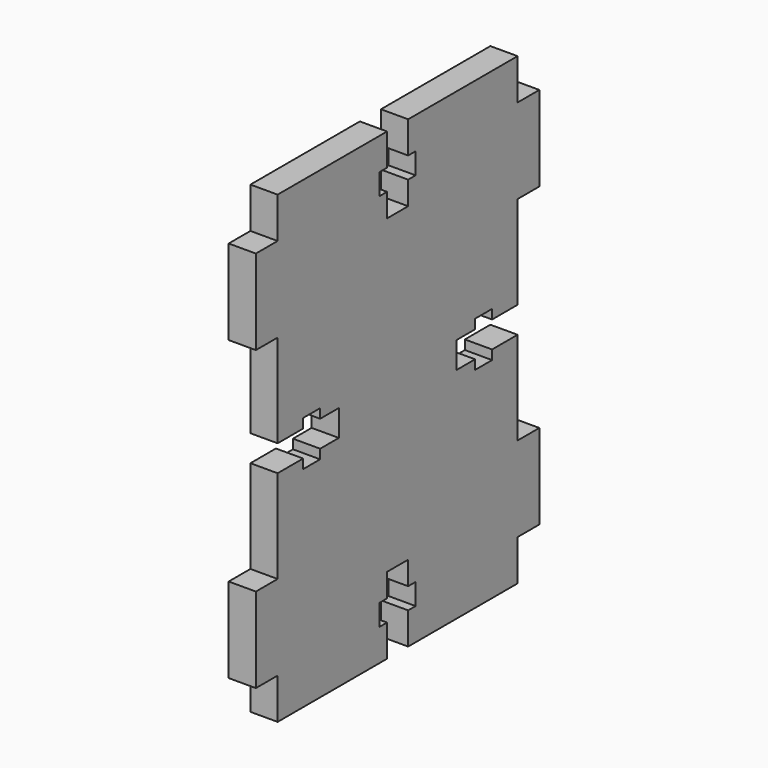
from build123d import *

# Parameters (mm, degrees)
F1_W     = 35.28
F1_H     = 54.6
F2_DEPTH = 3.2
F3_W     = 3.2
F3_H     = 10
F4_DEPTH = 3.2
F5_W     = 3.1
F5_H     = 3.75
F5_H_2   = 2.5
F5_W_2   = 1.1
F5_H_3   = 2.75
F5_W_3   = 3.75
F5_H_4   = 3.1
F5_W_4   = 2.5
F5_H_5   = 1.1
F5_W_5   = 2.75
F6_DEPTH = 3.201


with BuildPart() as f2:
    # F1 (on Right) → F2 (new body)
    with BuildSketch(Plane.YZ):
        with Locations((0, 27.3)):
            Rectangle(F1_W, F1_H)
    extrude(amount=F2_DEPTH)

    # F3 (on face) → F4 (join, through all)
    with BuildSketch(Plane.YZ.offset(3.2)):
        with Locations((-19.24, 44.8)):
            Rectangle(F3_W, F3_H)
        with Locations((-19.24, 9.8)):
            Rectangle(F3_W, F3_H)
        with Locations((19.24, 9.8)):
            Rectangle(F3_W, F3_H)
        with Locations((19.24, 44.8)):
            Rectangle(F3_W, F3_H)
    extrude(amount=-F4_DEPTH)

    # F5 (on face) → F6 (cut, through all)
    with BuildSketch(Plane.YZ.offset(3.2)):
        with Locations((0, 1.875)):
            Rectangle(F5_W, F5_H)
        with Locations((0, 5)):
            Rectangle(F5_W, F5_H_2)
        with Locations((2.1, 5)):
            Rectangle(F5_W_2, F5_H_2)
        with Locations((0, 7.625)):
            Rectangle(F5_W, F5_H_3)
        with Locations((-2.1, 5)):
            Rectangle(F5_W_2, F5_H_2)
        with Locations((-15.765, 27.3)):
            Rectangle(F5_W_3, F5_H_4)
        with Locations((-12.64, 27.3)):
            Rectangle(F5_W_4, F5_H_4)
        with Locations((-12.64, 25.2)):
            Rectangle(F5_W_4, F5_H_5)
        with Locations((-10.015, 27.3)):
            Rectangle(F5_W_5, F5_H_4)
        with Locations((-12.64, 29.4)):
            Rectangle(F5_W_4, F5_H_5)
        with Locations((12.64, 29.4)):
            Rectangle(F5_W_4, F5_H_5)
        with Locations((12.64, 27.3)):
            Rectangle(F5_W_4, F5_H_4)
        with Locations((10.015, 27.3)):
            Rectangle(F5_W_5, F5_H_4)
        with Locations((15.765, 27.3)):
            Rectangle(F5_W_3, F5_H_4)
        with Locations((12.64, 25.2)):
            Rectangle(F5_W_4, F5_H_5)
        with Locations((2.1, 49.6)):
            Rectangle(F5_W_2, F5_H_2)
        with Locations((0, 46.975)):
            Rectangle(F5_W, F5_H_3)
        with Locations((0, 49.6)):
            Rectangle(F5_W, F5_H_2)
        with Locations((0, 52.725)):
            Rectangle(F5_W, F5_H)
        with Locations((-2.1, 49.6)):
            Rectangle(F5_W_2, F5_H_2)
    extrude(amount=-F6_DEPTH, mode=Mode.SUBTRACT)


solid = f2.part
